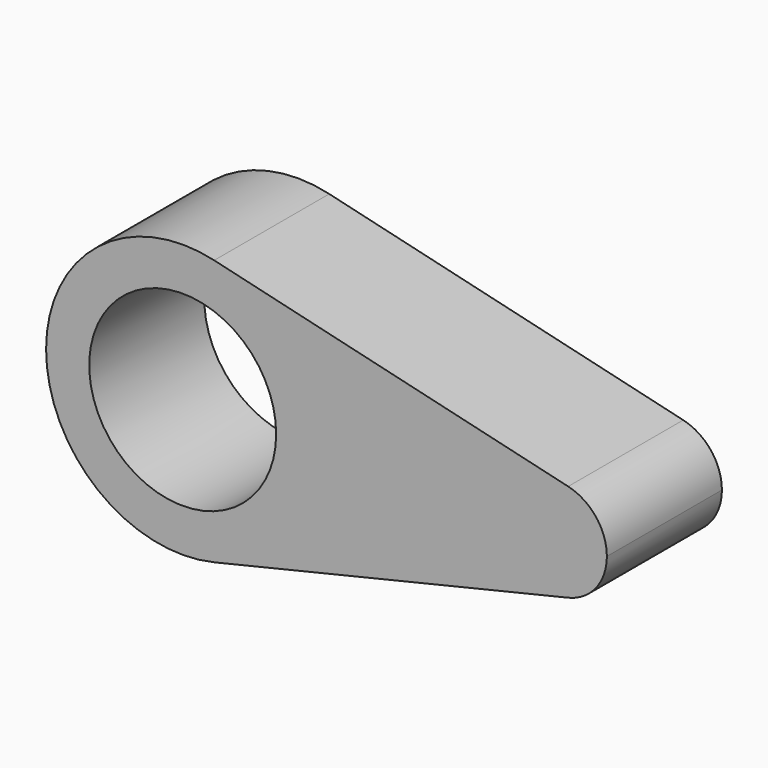
from build123d import *

# Parameters (mm, degrees)
F0_R     = 32.5
F1_DEPTH = 50


with BuildPart() as f1:
    # F0 (on Front) → F1 (new body)
    with BuildSketch(Plane.XZ):
        with BuildLine():
            ThreePointArc((10.961538, -46.217904), (37.262066, -29.458249), (47.5, 0))
            ThreePointArc((47.5, 0), (37.262066, 29.458249), (10.961538, 46.217904))
            ThreePointArc((10.961538, 46.217904), (-47.5, 0), (10.961538, -46.217904))
        make_face()
        Circle(F0_R, mode=Mode.SUBTRACT)
        with BuildLine():
            ThreePointArc((10.961538, 46.217904), (37.262066, 29.458249), (47.5, 0))
            ThreePointArc((47.5, 0), (37.262066, -29.458249), (10.961538, -46.217904))
            Line((10.961538, -46.217904), (134.038462, -17.027649))
            ThreePointArc((134.038462, -17.027649), (112.5, 0), (134.038462, 17.027649))
            Line((134.038462, 17.027649), (10.961538, 46.217904))
        make_face()
        with BuildLine():
            ThreePointArc((147.5, 0), (143.728129, 10.853039), (134.038462, 17.027649))
            ThreePointArc((134.038462, 17.027649), (112.5, 0), (134.038462, -17.027649))
            ThreePointArc((134.038462, -17.027649), (143.728129, -10.853039), (147.5, 0))
        make_face()
    extrude(amount=F1_DEPTH)


solid = f1.part
